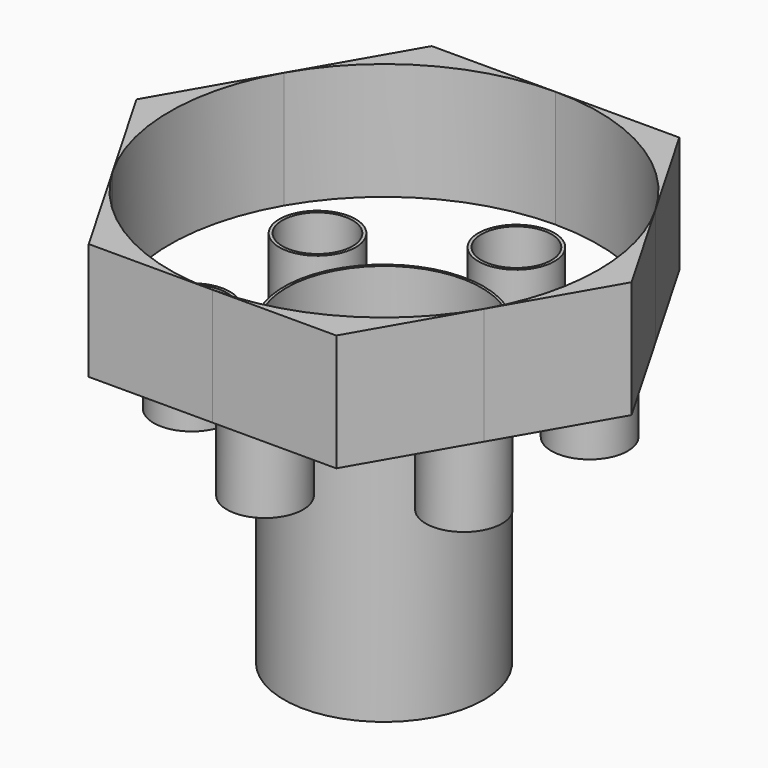
from build123d import *

# Parameters (mm, degrees)
F0_R       = 25.6630058186
F1_DEPTH   = 76.6
F2_D       = 50
F2_DEPTH   = 60
F2_TIP     = 15.0215154757
F3_DEPTH   = 30
F4_R       = 9.7919949692
F5_DEPTH   = 23.3
F6_D       = 18
F6_DEPTH   = 20
F6_TIP     = 5.4077455712
F6_2_D     = 18
F6_2_DEPTH = 20
F6_2_TIP   = 5.4077455712
F6_3_D     = 18
F6_3_DEPTH = 20
F6_3_TIP   = 5.4077455712
F6_4_D     = 18
F6_4_DEPTH = 20
F6_4_TIP   = 5.4077455712
F6_5_D     = 18
F6_5_DEPTH = 20
F6_5_TIP   = 5.4077455712
F6_6_D     = 18
F6_6_DEPTH = 20
F6_6_TIP   = 5.4077455712


with BuildPart() as f1:
    # F0 (on Top) → F1 (new body)
    with BuildSketch(Plane.XY):
        with Locations((0, -2.1516394336)):
            Circle(F0_R)
    extrude(amount=-F1_DEPTH)

    # F2
    with Locations(Plane.XY):
        with Locations((0, -2.1516394336)):
            Hole(F2_D / 2, depth=F2_DEPTH)
            with Locations((0, 0, -(F2_DEPTH + F2_TIP / 2))):  # 118° drill point
                Cone(0, F2_D / 2, F2_TIP, mode=Mode.SUBTRACT)


with BuildPart() as f3:
    # F0 (on Top) → F3 (new body)
    with BuildSketch(Plane.XY):
        with BuildLine():
            ThreePointArc((-47.6298648429, 25.3474739188), (-27.499115517, 45.4782241596), (3.13e-08, 52.8465901754))
            Line((3.13e-08, 52.8465901754), (-31.7532426697, 52.8465901754))
            Line((-31.7532426697, 52.8465901754), (-47.6298648429, 25.3474739188))
        make_face()
    extrude(amount=F3_DEPTH)


with BuildPart() as f3b:
    # F0 (on Top) → F3, piece 2 (new body)
    with BuildSketch(Plane.XY):
        with BuildLine():
            ThreePointArc((-47.6298641461, -29.6507539929), (-54.998229609, -2.1516401304), (-47.6298648429, 25.3474739188))
            Line((-47.6298648429, 25.3474739188), (-63.5064853394, -2.1516394336))
            Line((-63.5064853394, -2.1516394336), (-47.6298641461, -29.6507539929))
        make_face()
    extrude(amount=F3_DEPTH)


with BuildPart() as f3c:
    # F0 (on Top) → F3, piece 3 (new body)
    with BuildSketch(Plane.XY):
        with BuildLine():
            Line((-31.7532426697, -57.1498690425), (0, -57.1498690425))
            ThreePointArc((0, -57.1498690425), (-27.4991149271, -49.7815033673), (-47.6298641461, -29.6507539929))
            Line((-47.6298641461, -29.6507539929), (-31.7532426697, -57.1498690425))
        make_face()
    extrude(amount=F3_DEPTH)


with BuildPart() as f3d:
    # F0 (on Top) → F3, piece 4 (new body)
    with BuildSketch(Plane.XY):
        with BuildLine():
            Line((31.7532426697, -57.1498690425), (47.6298637472, -29.6507546837))
            ThreePointArc((47.6298637472, -29.6507546837), (27.4991145817, -49.7815035667), (0, -57.1498690425))
            Line((0, -57.1498690425), (31.7532426697, -57.1498690425))
        make_face()
    extrude(amount=F3_DEPTH)


with BuildPart() as f3e:
    # F0 (on Top) → F3, piece 5 (new body)
    with BuildSketch(Plane.XY):
        with BuildLine():
            ThreePointArc((3.13e-08, 52.8465901754), (27.4991147982, 45.4782245746), (47.6298639816, 25.3474754107))
            Line((47.6298639816, 25.3474754107), (31.7532426697, 52.8465901754))
            Line((31.7532426697, 52.8465901754), (3.13e-08, 52.8465901754))
        make_face()
    extrude(amount=F3_DEPTH)


with BuildPart() as f3f:
    # F0 (on Top) → F3, piece 6 (new body)
    with BuildSketch(Plane.XY):
        with BuildLine():
            ThreePointArc((47.6298639816, 25.3474754107), (53.1242103735, 12.0829498583), (54.998229609, -2.1516394336))
            ThreePointArc((54.998229609, -2.1516394336), (53.1242103129, -16.3862289518), (47.6298637472, -29.6507546837))
            Line((47.6298637472, -29.6507546837), (63.5064853394, -2.1516394336))
            Line((63.5064853394, -2.1516394336), (47.6298639816, 25.3474754107))
        make_face()
    extrude(amount=F3_DEPTH)


with BuildPart() as f5:
    # F4 (on face) → F5 (new body)
    with BuildSketch(Plane.XY):
        with Locations((0, 40.3073765337)):
            Circle(F4_R)
    extrude(amount=-F5_DEPTH)

    # F6
    with Locations(Plane.XY):
        with Locations((-34.9072120381, 20.1536882669), (0, 40.3073765337), (34.9072120381, 20.1536882669), (34.9072120381, -20.1536882669), (0, -40.3073765337), (-34.9072120381, -20.1536882669)):
            Hole(F6_D / 2, depth=F6_DEPTH)
            with Locations((0, 0, -(F6_DEPTH + F6_TIP / 2))):  # 118° drill point
                Cone(0, F6_D / 2, F6_TIP, mode=Mode.SUBTRACT)


with BuildPart() as f5b:
    # F4 (on face) → F5, piece 2 (new body)
    with BuildSketch(Plane.XY):
        with Locations((-34.9072120381, 20.1536882669)):
            Circle(F4_R)
    extrude(amount=-F5_DEPTH)

    # F6#2
    with Locations(Plane.XY):
        with Locations((-34.9072120381, 20.1536882669), (0, 40.3073765337), (34.9072120381, 20.1536882669), (34.9072120381, -20.1536882669), (0, -40.3073765337), (-34.9072120381, -20.1536882669)):
            Hole(F6_2_D / 2, depth=F6_2_DEPTH)
            with Locations((0, 0, -(F6_2_DEPTH + F6_2_TIP / 2))):  # 118° drill point
                Cone(0, F6_2_D / 2, F6_2_TIP, mode=Mode.SUBTRACT)


with BuildPart() as f5c:
    # F4 (on face) → F5, piece 3 (new body)
    with BuildSketch(Plane.XY):
        with Locations((-34.9072120381, -20.1536882669)):
            Circle(F4_R)
    extrude(amount=-F5_DEPTH)

    # F6#3
    with Locations(Plane.XY):
        with Locations((-34.9072120381, 20.1536882669), (0, 40.3073765337), (34.9072120381, 20.1536882669), (34.9072120381, -20.1536882669), (0, -40.3073765337), (-34.9072120381, -20.1536882669)):
            Hole(F6_3_D / 2, depth=F6_3_DEPTH)
            with Locations((0, 0, -(F6_3_DEPTH + F6_3_TIP / 2))):  # 118° drill point
                Cone(0, F6_3_D / 2, F6_3_TIP, mode=Mode.SUBTRACT)


with BuildPart() as f5d:
    # F4 (on face) → F5, piece 4 (new body)
    with BuildSketch(Plane.XY):
        with Locations((0, -40.3073765337)):
            Circle(F4_R)
    extrude(amount=-F5_DEPTH)

    # F6#4
    with Locations(Plane.XY):
        with Locations((-34.9072120381, 20.1536882669), (0, 40.3073765337), (34.9072120381, 20.1536882669), (34.9072120381, -20.1536882669), (0, -40.3073765337), (-34.9072120381, -20.1536882669)):
            Hole(F6_4_D / 2, depth=F6_4_DEPTH)
            with Locations((0, 0, -(F6_4_DEPTH + F6_4_TIP / 2))):  # 118° drill point
                Cone(0, F6_4_D / 2, F6_4_TIP, mode=Mode.SUBTRACT)


with BuildPart() as f5e:
    # F4 (on face) → F5, piece 5 (new body)
    with BuildSketch(Plane.XY):
        with Locations((34.9072120381, -20.1536882669)):
            Circle(F4_R)
    extrude(amount=-F5_DEPTH)

    # F6#5
    with Locations(Plane.XY):
        with Locations((-34.9072120381, 20.1536882669), (0, 40.3073765337), (34.9072120381, 20.1536882669), (34.9072120381, -20.1536882669), (0, -40.3073765337), (-34.9072120381, -20.1536882669)):
            Hole(F6_5_D / 2, depth=F6_5_DEPTH)
            with Locations((0, 0, -(F6_5_DEPTH + F6_5_TIP / 2))):  # 118° drill point
                Cone(0, F6_5_D / 2, F6_5_TIP, mode=Mode.SUBTRACT)


with BuildPart() as f5f:
    # F4 (on face) → F5, piece 6 (new body)
    with BuildSketch(Plane.XY):
        with Locations((34.9072120381, 20.1536882669)):
            Circle(F4_R)
    extrude(amount=-F5_DEPTH)

    # F6#6
    with Locations(Plane.XY):
        with Locations((-34.9072120381, 20.1536882669), (0, 40.3073765337), (34.9072120381, 20.1536882669), (34.9072120381, -20.1536882669), (0, -40.3073765337), (-34.9072120381, -20.1536882669)):
            Hole(F6_6_D / 2, depth=F6_6_DEPTH)
            with Locations((0, 0, -(F6_6_DEPTH + F6_6_TIP / 2))):  # 118° drill point
                Cone(0, F6_6_D / 2, F6_6_TIP, mode=Mode.SUBTRACT)


solid = Compound([f1.part, f3.part, f3b.part, f3c.part, f3d.part, f3e.part, f3f.part, f5.part, f5b.part, f5c.part, f5d.part, f5e.part, f5f.part])
